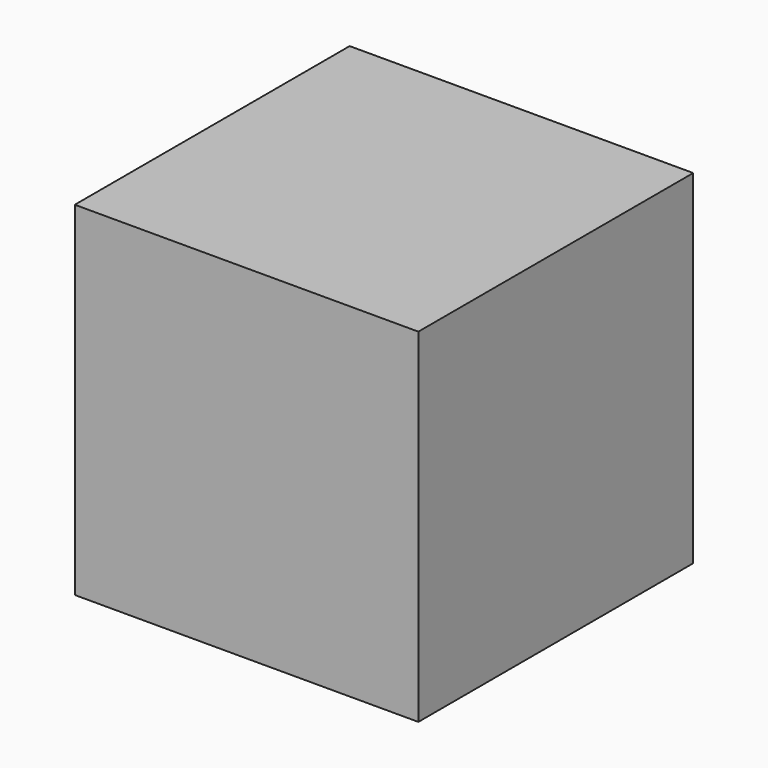
from build123d import *

# Parameters (mm, degrees)
CYLINDER_R     = 100
CYLINDER_DEPTH = 50
BOX001_W       = 450
BOX001_H       = 450
BOX001_DEPTH   = 450
BOX013_W       = 500
BOX013_H       = 500
BOX013_DEPTH   = 500


with BuildPart() as cylinder:
    # Cylinder → Cylinder (new body)
    with BuildSketch(Plane(origin=(250, 250, -10), x_dir=(1, 0, 0), z_dir=(0, 0, 1))):
        Circle(CYLINDER_R)
    extrude(amount=CYLINDER_DEPTH)


with BuildPart() as cube001:
    # Box001 → Box001 (new body)
    with BuildSketch(Plane(origin=(25, 25, 25), x_dir=(1, 0, 0), z_dir=(0, 0, 1))):
        with Locations((225, 225)):
            Rectangle(BOX001_W, BOX001_H)
    extrude(amount=BOX001_DEPTH)


with BuildPart() as vacuumchamber:
    # Box013 → Box013 (new body)
    with BuildSketch(Plane.XY):
        with Locations((250, 250)):
            Rectangle(BOX013_W, BOX013_H)
    extrude(amount=BOX013_DEPTH)

    # Cut006: cut Cube001
    add(cube001.part, mode=Mode.SUBTRACT)

    # Cut001: cut Cylinder
    add(cylinder.part, mode=Mode.SUBTRACT)


solid = vacuumchamber.part
